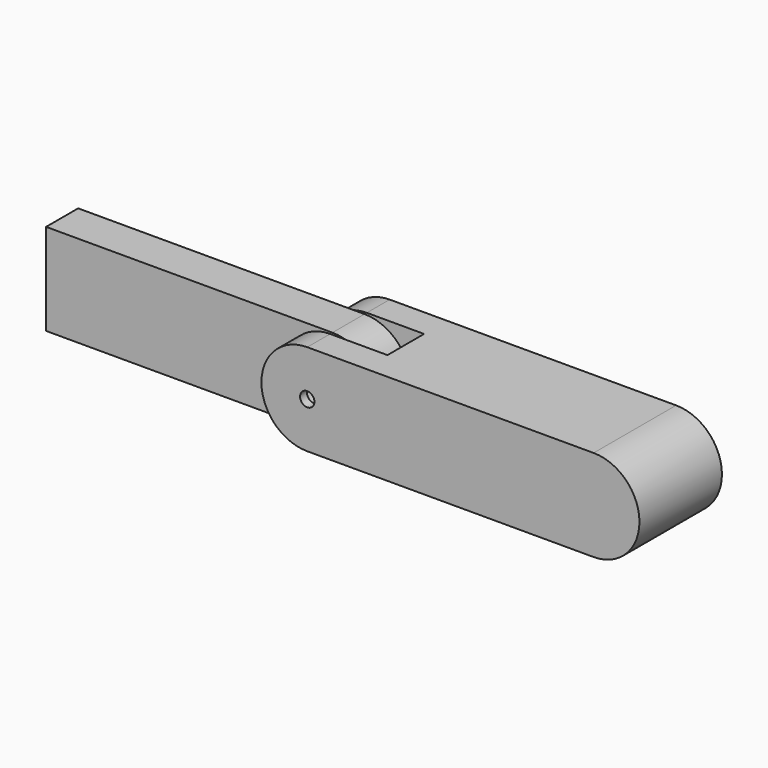
from build123d import *

# Parameters (mm, degrees)
F0_R          = 1.25
F1_DEPTH      = 9
F1_DEPTH_BACK = 9
F3_DEPTH      = 16
F4_R          = 3.1
F4_R_2        = 1.25
F5_DEPTH      = 3.5
F6_R          = 3.1
F7_DEPTH      = 3.5
F8_R          = 1
F9_DEPTH      = 3.5
F9_DEPTH_BACK = 3.5


with BuildPart() as f1:
    # F0 (on Front) → F1 (new body, two sides)
    with BuildSketch(Plane.XZ) as f1_sk:
        with BuildLine():
            Line((50, 8), (0, 8))
            ThreePointArc((0, 8), (-8, 0), (0, -8))
            Line((0, -8), (50, -8))
            ThreePointArc((50, -8), (58, 0), (50, 8))
        make_face()
        Circle(F0_R, mode=Mode.SUBTRACT)
    extrude(amount=F1_DEPTH)
    extrude(f1_sk.sketch, amount=-F1_DEPTH_BACK)

    # F2 (on face) → F3 (cut, through all)
    with BuildSketch(Plane.XY.offset(8)):
        Polygon((-8, 0), (-8, -4), (0, -4), (0, 4), (-8, 4), align=None)
        Polygon((0, 4), (0, -4), (10, -4), (10, 0), (10, 4), align=None)
    extrude(amount=-F3_DEPTH, mode=Mode.SUBTRACT)

    # F4 (on face) → F5 (cut)
    with BuildSketch(Plane(origin=(0, -4, 0), x_dir=(-1, 0, 0), z_dir=(0, 1, 0))):
        Circle(F4_R)
        Circle(F4_R_2, mode=Mode.SUBTRACT)
    extrude(amount=-F5_DEPTH, mode=Mode.SUBTRACT)

    # F6 (on face) → F7 (cut)
    with BuildSketch(Plane.XZ.offset(-4)):
        Circle(F6_R)
    extrude(amount=-F7_DEPTH, mode=Mode.SUBTRACT)


with BuildPart() as f9:
    # F8 (on Front) → F9 (new body, two sides)
    with BuildSketch(Plane.XZ) as f9_sk:
        with BuildLine():
            ThreePointArc((0, -8), (8, 0), (0, 8))
            Line((0, 8), (-50, 8))
            Line((-50, 8), (-50, -8))
            Line((-50, -8), (0, -8))
        make_face()
        Circle(F8_R, mode=Mode.SUBTRACT)
    extrude(amount=F9_DEPTH)
    extrude(f9_sk.sketch, amount=-F9_DEPTH_BACK)


solid = Compound([f1.part, f9.part])
